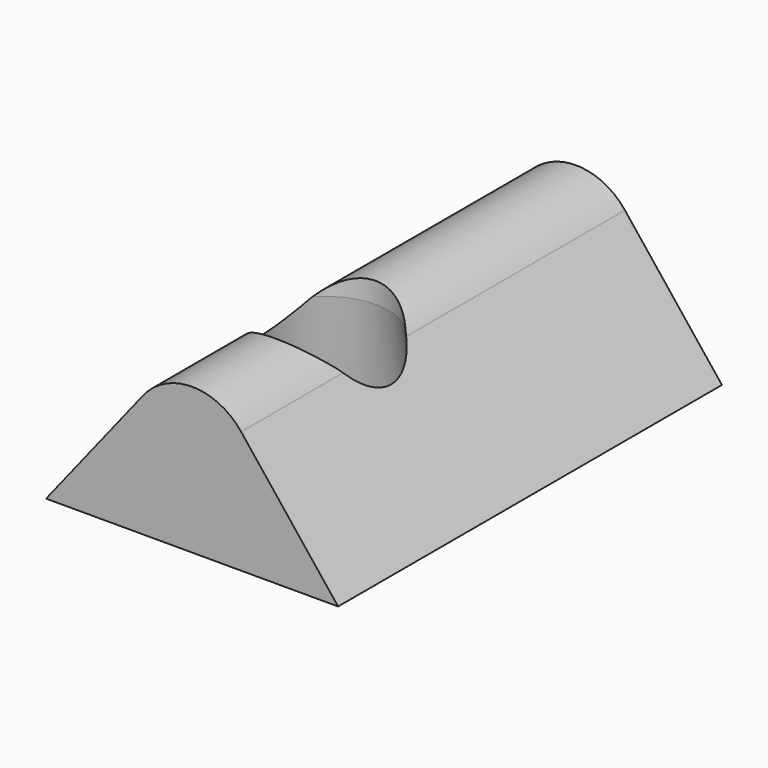
from build123d import *

# Parameters (mm, degrees)
F1_DEPTH      = 8
F1_DEPTH_BACK = 15
F2_W          = 3
F2_H          = 2


with BuildPart() as f1:
    # F0 (on Front) → F1 (new body, two sides)
    with BuildSketch(Plane.XZ) as f1_sk:
        with BuildLine():
            Line((-2.350766, 5.86384), (-7, 0))
            Line((-7, 0), (7, 0))
            Line((7, 0), (2.350766, 5.86384))
            ThreePointArc((2.350766, 5.86384), (0, 7), (-2.350766, 5.86384))
        make_face()
    extrude(amount=F1_DEPTH)
    extrude(f1_sk.sketch, amount=-F1_DEPTH_BACK)

    # F2 (on Front) → F3 (revolve, cut)
    with BuildSketch(Plane.XZ):
        Polygon((-3, 6), (-3.5, 2), (-3.5, 0), (0, 0), (0, 6), align=None)
        with Locations((-1.5, 7)):
            Rectangle(F2_W, F2_H)
    revolve(axis=Axis((0, 0, 4.448359), (0, 0, -1)), mode=Mode.SUBTRACT)


solid = f1.part
